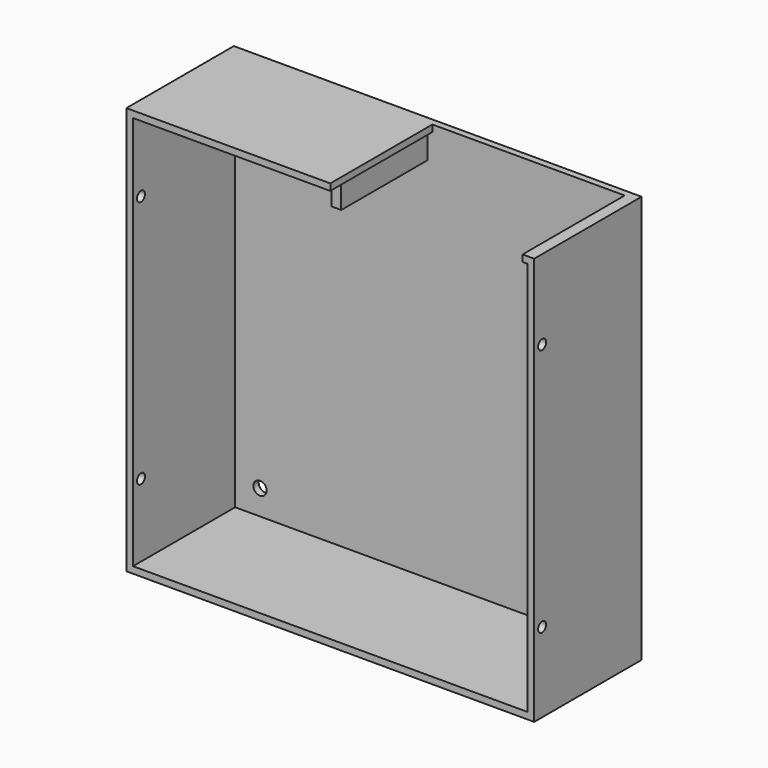
from build123d import *

# Parameters (mm, degrees)
SKETCH004_W     = 123
SKETCH004_H     = 123
SKETCH004_R     = 2
PAD002_DEPTH    = 2
PAD003_DEPTH    = 38.5
SKETCH014_W     = 119
SKETCH014_H     = 119
POCKET002_DEPTH = 6.001
SKETCH015_R     = 1.5
POCKET003_DEPTH = 123.001


with BuildPart() as part:
    # Sketch004 → Pad002 (new body)
    with BuildSketch(Plane.XZ):
        Rectangle(SKETCH004_W, SKETCH004_H)
        with Locations((-52, 52)):
            Circle(SKETCH004_R, mode=Mode.SUBTRACT)
        with Locations((-52, -52)):
            Circle(SKETCH004_R, mode=Mode.SUBTRACT)
        with Locations((52, -52)):
            Circle(SKETCH004_R, mode=Mode.SUBTRACT)
    extrude(amount=-PAD002_DEPTH)

    # Sketch005 (on Face8 of Pad002) → Pad003 (join)
    with BuildSketch(Plane.XZ):
        Polygon((-61.5, -61.5), (61.5, -61.5), (61.5, 61.5), (58, 61.5), (58, 59.5), (59.5, 59.5), (59.5, -59.5), (-59.5, -59.5), (-59.5, 59.5), (-4.5, 59.5), (-4.5, 51.5), (-1.5, 51.5), (-1.5, 59.5), (0, 59.5), (0, 61.5), (-61.5, 61.5), align=None)
    extrude(amount=PAD003_DEPTH)

    # Sketch014 → Pocket002 (cut, through all)
    with BuildSketch(Plane.XZ.offset(32.5)):
        Rectangle(SKETCH014_W, SKETCH014_H)
    extrude(amount=POCKET002_DEPTH, mode=Mode.SUBTRACT)

    # Sketch015 (on Face15 of Pocket002) → Pocket003 (cut, through all)
    with BuildSketch(Plane(origin=(61.5, 0, 0), x_dir=(0, 0, 1), z_dir=(1, 0, 0))):
        with Locations((-37.5, 35.5)):
            Circle(SKETCH015_R)
        with Locations((37.5, 35.5)):
            Circle(SKETCH015_R)
    extrude(amount=-POCKET003_DEPTH, mode=Mode.SUBTRACT)


solid = part.part
